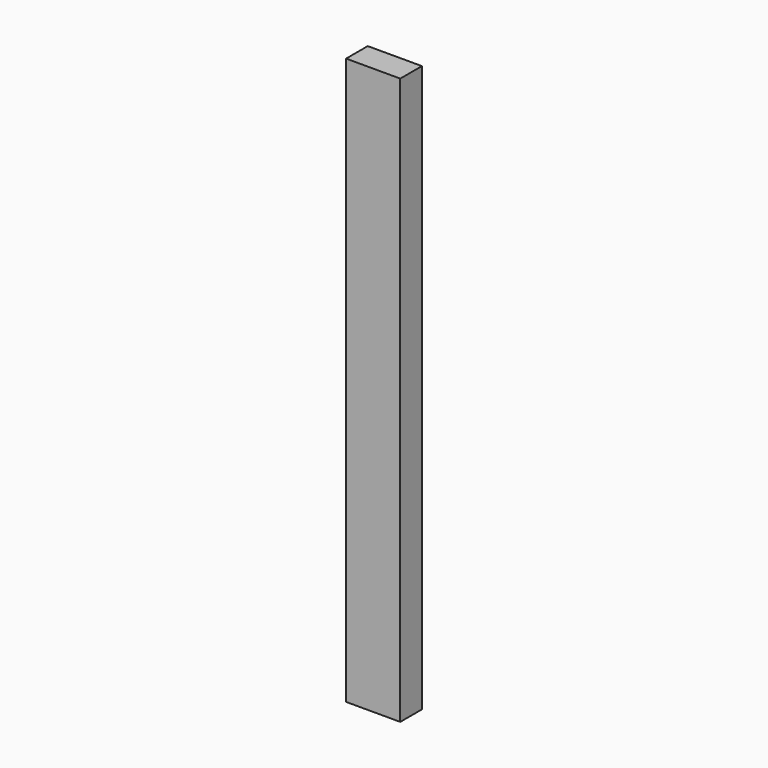
from build123d import *

# Parameters (mm, degrees)
F0_W     = 38.1
F0_H     = 199.23125
F1_DEPTH = 9.525


with BuildPart() as f1:
    # F0 (on Front) → F1 (new body, symmetric)
    with BuildSketch(Plane.XZ):
        with Locations((-12.9539953259, 99.615625)):
            Rectangle(F0_W, F0_H)
        with Locations((-12.9539953259, -99.615625)):
            Rectangle(F0_W, F0_H)
    extrude(amount=F1_DEPTH, both=True)


solid = f1.part
